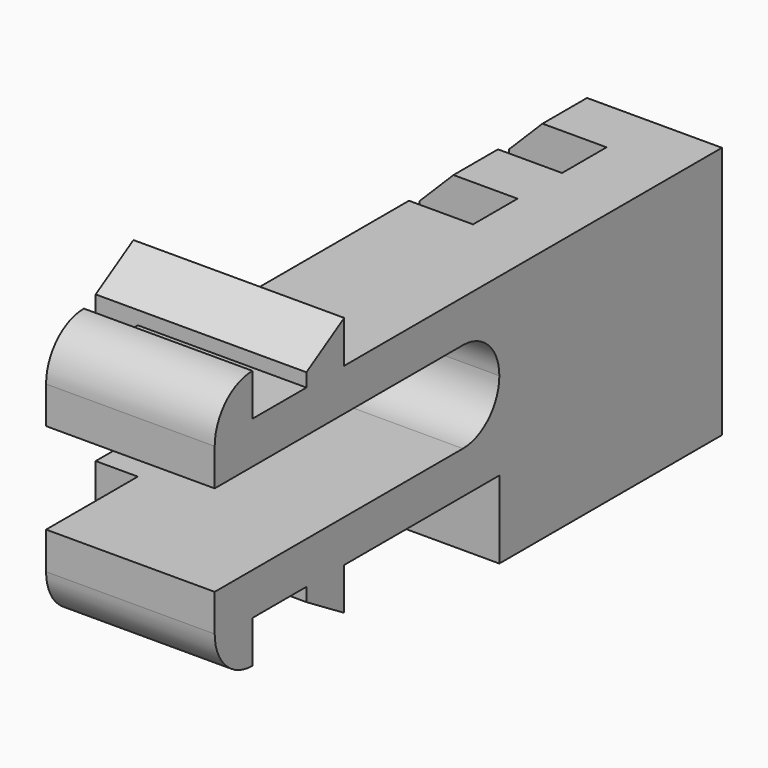
from build123d import *

# Parameters (mm, degrees)
PAD017_DEPTH              = 5
PAD020_DEPTH              = 6.25
SKETCH105_W               = 7.5
SKETCH105_H               = 1.65
PAD074_DEPTH              = 5
SKETCH102_W               = 7.5
SKETCH102_H               = 1.65
PAD075_DEPTH              = 2.1
SKETCH103_W               = 2.1
SKETCH103_H               = 1.65
PAD076_DEPTH              = 5
SKETCH104_W               = 7.5
SKETCH104_H               = 1.65
PAD077_DEPTH              = 5
LINEARPATTERN024_COUNT    = 2
LINEARPATTERN024_PITCH    = 3.3
CHAMFER014_SIZE           = 1
MIRROR012_PLACEMENT_ANGLE = 90


with BuildPart() as obj1:
    # Sketch034 → Pad017 (new body)
    with BuildSketch(Plane.XY):
        with BuildLine():
            Line((-1.35, -1.8), (-1.35, 6))
            ThreePointArc((0, 7.35), (-0.954594, 6.954594), (-1.35, 6))
            Line((0, 9), (0, 7.35))
            Line((-2.6, 9), (0, 9))
            Line((-2.6, -1.8), (-2.6, 9))
            Line((-3.85, -1.8), (-2.6, -1.8))
            ThreePointArc((-3.85, -1.8), (-3.439949, -2.789949), (-2.45, -3.2))
            Line((-1.35, -3.2), (-2.45, -3.2))
            Line((-1.35, -1.8), (-1.35, -3.2))
        make_face()
    extrude(amount=PAD017_DEPTH)

    # Sketch037 → Pad020 (join)
    with BuildSketch(Plane.XY):
        Polygon((-1.35, 0.2), (-1.35, 1.6), (-2.6, 1.6), (-3.85, 1.6), (-3, 0.2), (-2.6, 0.2), align=None)
    extrude(amount=PAD020_DEPTH)


with BuildPart() as obj2:
    # Mirror001: instance of _obj1
    add(obj1.part.mirror(Plane(origin=(0, 0, 0), x_dir=(0, 1, 0), z_dir=(-1, 0, 0))))


with BuildPart() as body038:
    # Fusion001 base: copy of _obj1
    add(obj1.part)

    # Fusion001: union _obj2)
    add(obj2.part)

    # Sketch105 → Pad074 (new body)
    with BuildSketch(Plane.XY):
        with Locations((1.15, 8.175)):
            Rectangle(SKETCH105_W, SKETCH105_H)
    extrude(amount=PAD074_DEPTH)

    # Sketch102 → Pad075 (join)
    with BuildSketch(Plane.XY):
        with Locations((1.15, 9.825)):
            Rectangle(SKETCH102_W, SKETCH102_H)
    pad075 = extrude(amount=PAD075_DEPTH)

    # Sketch103 → Pad076 (join)
    with BuildSketch(Plane.XY):
        with Locations((3.85, 9.825)):
            Rectangle(SKETCH103_W, SKETCH103_H)
    pad076 = extrude(amount=PAD076_DEPTH)

    # Sketch104 → Pad077 (join)
    with BuildSketch(Plane.XY):
        with Locations((1.15, 11.475)):
            Rectangle(SKETCH104_W, SKETCH104_H)
    pad077 = extrude(amount=PAD077_DEPTH)

    # LinearPattern024: Pad077, Pad076, Pad075 ×2
    with Locations(*[(0, i * LINEARPATTERN024_PITCH, 0) for i in range(1, LINEARPATTERN024_COUNT)]):
        add(pad077)
        add(pad076)
        add(pad075)

    # Chamfer014
    chamfer014_edges = [body038.edges().sort_by_distance(p)[0] for p in [
        (-2.6, 8.175, 5),
        (-2.6, 11.475, 5),
        (-2.6, 14.775, 5),
    ]]
    chamfer(chamfer014_edges, length=CHAMFER014_SIZE)


with BuildPart() as mirror012:
    # Mirror012: instance of Body038
    add(body038.part.mirror(Plane(origin=(0, 0, 0), x_dir=(0, -1, 0), z_dir=(1, 0, 0))))


with BuildPart() as mirror012_1:
    # Mirror012 placement: moved
    add(mirror012.part.moved(Location((2.5, 0, 2.5))).rotate(Axis((2.5, 0, 2.5), (0, -1, 0)), MIRROR012_PLACEMENT_ANGLE))


solid = mirror012_1.part
